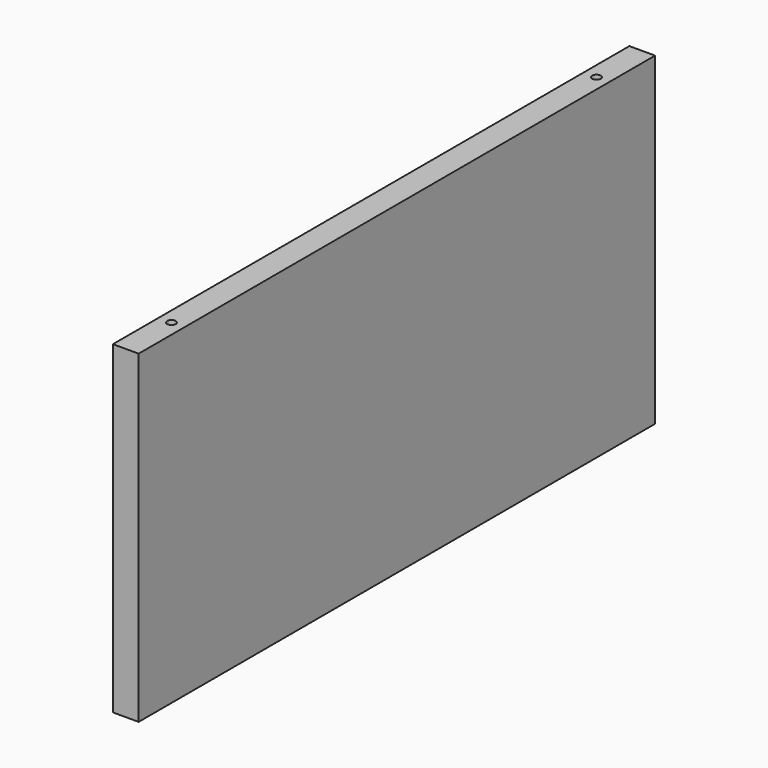
from build123d import *

# Parameters (mm, degrees)
F0_W     = 452
F0_H     = 227
F1_DEPTH = 9
F2_R     = 3
F3_DEPTH = 15
F4_R     = 3
F5_DEPTH = 15


with BuildPart() as f1:
    # F0 (on Right) → F1 (new body, symmetric)
    with BuildSketch(Plane.YZ):
        Rectangle(F0_W, F0_H)
    extrude(amount=F1_DEPTH, both=True)

    # F2 (on face) → F3 (cut)
    with BuildSketch(Plane.XY.offset(113.5)):
        with Locations((0, -186)):
            Circle(F2_R)
        with Locations((0, 186)):
            Circle(F2_R)
    extrude(amount=-F3_DEPTH, mode=Mode.SUBTRACT)

    # F4 (on face) → F5 (cut)
    with BuildSketch(Plane(origin=(0, 0, -113.5), x_dir=(1, 0, 0), z_dir=(0, 0, -1))):
        with Locations((0, 186)):
            Circle(F4_R)
        with Locations((0, -186)):
            Circle(F4_R)
    extrude(amount=-F5_DEPTH, mode=Mode.SUBTRACT)


solid = f1.part
